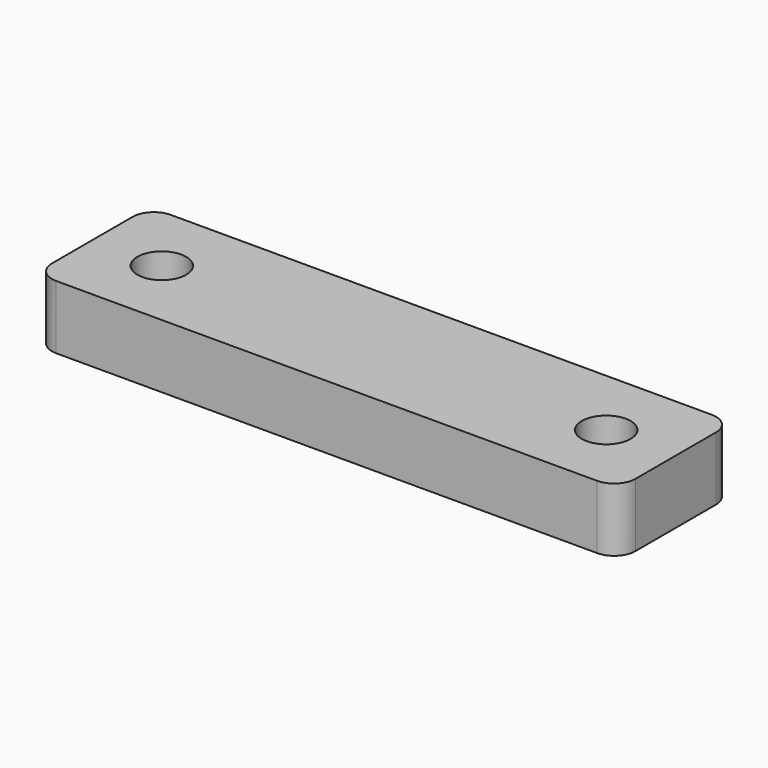
from build123d import *

# Parameters (mm, degrees)
F0_W     = 55
F0_H     = 13.5
F0_R     = 2.3
F1_DEPTH = 6
F2_R     = 2


with BuildPart() as f1:
    # F0 (on Top) → F1 (new body)
    with BuildSketch(Plane.XY):
        Rectangle(F0_W, F0_H)
        with Locations((-20.95, 0)):
            Circle(F0_R, mode=Mode.SUBTRACT)
        with Locations((20.95, 0)):
            Circle(F0_R, mode=Mode.SUBTRACT)
    extrude(amount=F1_DEPTH)

    # F2
    f2_edges = [f1.edges().sort_by_distance(p)[0] for p in [
        (-27.5, -6.75, 3),
        (-27.5, 6.75, 3),
        (27.5, 6.75, 3),
        (27.5, -6.75, 3),
    ]]
    fillet(f2_edges, radius=F2_R)


solid = f1.part
